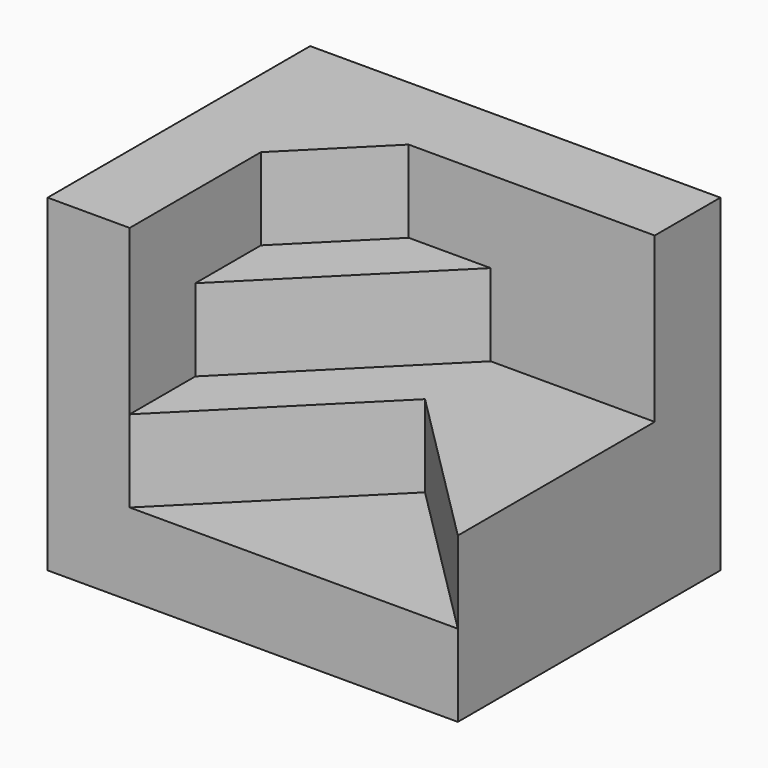
from build123d import *

# Parameters (mm, degrees)
SKETCH_W     = 50
SKETCH_H     = 40
PAD_DEPTH    = 10
PAD001_DEPTH = 30
PAD002_DEPTH = 20
PAD003_DEPTH = 10


with BuildPart() as part:
    # Sketch → Pad (new body)
    with BuildSketch(Plane.XY):
        Rectangle(SKETCH_W, SKETCH_H)
    extrude(amount=PAD_DEPTH)

    # Sketch001 (on Face6 of Pad) → Pad001 (join)
    with BuildSketch(Plane.XY.offset(10)):
        Polygon((-25, -20), (-25, 20), (25, 20), (25, 10), (-5, 10), (-15, 0), (-15, -20), align=None)
    extrude(amount=PAD001_DEPTH)

    # Sketch002 (on Face3 of Pad001) → Pad002 (join)
    with BuildSketch(Plane.XY.offset(10)):
        Polygon((-15, 0), (-5, 10), (5, 10), (-15, -10), align=None)
    extrude(amount=PAD002_DEPTH)

    # Sketch003 (on Face6 of Pad002) → Pad003 (join)
    with BuildSketch(Plane.XY.offset(10)):
        Polygon((-15, -20), (5, 0), (25, -20), (25, 10), (5, 10), (-15, -10), align=None)
    extrude(amount=PAD003_DEPTH)


solid = part.part
